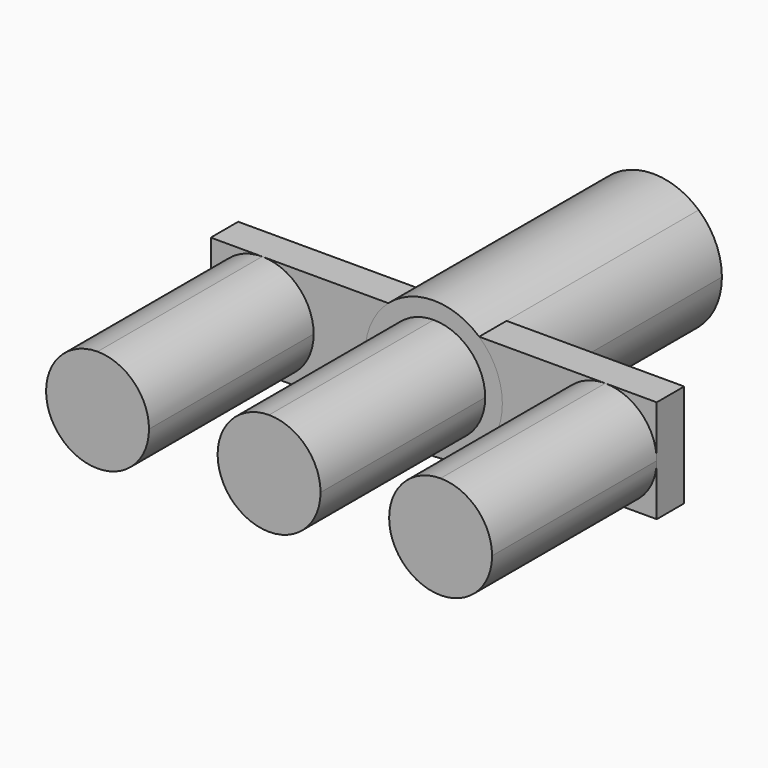
from build123d import *

# Parameters (mm, degrees)
F1_DEPTH = 76.2
F2_DEPTH = 12.7
F3_DEPTH = 101.6


with BuildPart() as f1:
    # F0 (on Front) → F1 (new body)
    with BuildSketch(Plane.XZ):
        with BuildLine():
            ThreePointArc((-63.5, -19.05), (-50.0296158184, -13.4703841816), (-44.45, 0))
            ThreePointArc((-44.45, 0), (-50.0296158184, 13.4703841816), (-63.5, 19.05))
            ThreePointArc((-63.5, 19.05), (-76.9703841264, 13.4703842368), (-82.55, 1.56e-07))
            ThreePointArc((-82.55, 1.56e-07), (-76.9703842368, -13.4703841264), (-63.5, -19.05))
        make_face()
    extrude(amount=F1_DEPTH)


with BuildPart() as f1b:
    # F0 (on Front) → F1, piece 2 (new body)
    with BuildSketch(Plane.XZ):
        with BuildLine():
            ThreePointArc((82.55, 0), (76.9703841816, 13.4703841816), (63.5, 19.05))
            ThreePointArc((63.5, 19.05), (50.0296158184, 13.4703841816), (44.45, 0))
            ThreePointArc((44.45, 0), (50.0296158184, -13.4703841816), (63.5, -19.05))
            ThreePointArc((63.5, -19.05), (76.9703841816, -13.4703841816), (82.55, 0))
        make_face()
    extrude(amount=F1_DEPTH)


with BuildPart() as f1c:
    # F0 (on Front) → F1, piece 3 (new body)
    with BuildSketch(Plane.XZ):
        with BuildLine():
            ThreePointArc((-5.96e-08, 19.05), (-13.4703842027, 13.4703841605), (-19.05, 0))
            Line((-19.05, 0), (0, 0))
            Line((0, 0), (19.05, 0))
            ThreePointArc((19.05, 0), (13.4703841605, 13.4703842027), (-5.96e-08, 19.05))
        make_face()
        with BuildLine():
            Line((0, 0), (-19.05, 0))
            ThreePointArc((-19.05, 0), (-13.4703842077, -13.4703841555), (-7.38e-08, -19.05))
            ThreePointArc((-7.38e-08, -19.05), (13.4703841555, -13.4703842077), (19.05, 0))
            Line((19.05, 0), (0, 0))
        make_face()
    extrude(amount=F1_DEPTH)


with BuildPart() as f2:
    # F0 (on Front) → F2 (new body)
    with BuildSketch(Plane.XZ):
        with BuildLine():
            ThreePointArc((-82.55, 1.56e-07), (-76.9703841264, 13.4703842368), (-63.5, 19.05))
            Line((-63.5, 19.05), (-82.55, 19.05))
            Line((-82.55, 19.05), (-82.55, 1.56e-07))
        make_face()
        with BuildLine():
            Line((-82.55, -19.05), (-63.5, -19.05))
            ThreePointArc((-63.5, -19.05), (-76.9703842368, -13.4703841264), (-82.55, 1.56e-07))
            Line((-82.55, 1.56e-07), (-82.55, -19.05))
        make_face()
        with BuildLine():
            Line((82.55, 19.05), (63.5, 19.05))
            ThreePointArc((63.5, 19.05), (76.9703841816, 13.4703841816), (82.55, 0))
            Line((82.55, 0), (82.55, 19.05))
        make_face()
        with BuildLine():
            ThreePointArc((82.55, 0), (76.9703841816, -13.4703841816), (63.5, -19.05))
            Line((63.5, -19.05), (82.55, -19.05))
            Line((82.55, -19.05), (82.55, 0))
        make_face()
        with BuildLine():
            ThreePointArc((-63.5, 19.05), (-50.0296158184, 13.4703841816), (-44.45, 0))
            Line((-44.45, 0), (-25.4, 0))
            ThreePointArc((-25.4, 0), (-23.1505208253, 10.4505208253), (-16.8005208253, 19.05))
            Line((-16.8005208253, 19.05), (-63.5, 19.05))
        make_face()
        with BuildLine():
            Line((-25.4, 0), (-44.45, 0))
            ThreePointArc((-44.45, 0), (-50.0296158184, -13.4703841816), (-63.5, -19.05))
            Line((-63.5, -19.05), (-16.8005208253, -19.05))
            ThreePointArc((-16.8005208253, -19.05), (-23.1505208253, -10.4505208253), (-25.4, 0))
        make_face()
        with BuildLine():
            Line((63.5, 19.05), (16.8005208253, 19.05))
            ThreePointArc((16.8005208253, 19.05), (23.1505208253, 10.4505208253), (25.4, 0))
            Line((25.4, 0), (44.45, 0))
            ThreePointArc((44.45, 0), (50.0296158184, 13.4703841816), (63.5, 19.05))
        make_face()
        with BuildLine():
            ThreePointArc((25.4, 0), (23.1505208253, -10.4505208253), (16.8005208253, -19.05))
            Line((16.8005208253, -19.05), (63.5, -19.05))
            ThreePointArc((63.5, -19.05), (50.0296158184, -13.4703841816), (44.45, 0))
            Line((44.45, 0), (25.4, 0))
        make_face()
        with BuildLine():
            Line((16.8005208253, 19.05), (-5.96e-08, 19.05))
            ThreePointArc((-5.96e-08, 19.05), (13.4703841605, 13.4703842027), (19.05, 0))
            Line((19.05, 0), (25.4, 0))
            ThreePointArc((25.4, 0), (23.1505208253, 10.4505208253), (16.8005208253, 19.05))
        make_face()
        with BuildLine():
            ThreePointArc((-16.8005208253, 19.05), (-23.1505208253, 10.4505208253), (-25.4, 0))
            Line((-25.4, 0), (-19.05, 0))
            ThreePointArc((-19.05, 0), (-13.4703842027, 13.4703841605), (-5.96e-08, 19.05))
            Line((-5.96e-08, 19.05), (-16.8005208253, 19.05))
        make_face()
        with BuildLine():
            Line((-19.05, 0), (-25.4, 0))
            ThreePointArc((-25.4, 0), (-23.1505208253, -10.4505208253), (-16.8005208253, -19.05))
            Line((-16.8005208253, -19.05), (-7.38e-08, -19.05))
            ThreePointArc((-7.38e-08, -19.05), (-13.4703842077, -13.4703841555), (-19.05, 0))
        make_face()
        with BuildLine():
            ThreePointArc((19.05, 0), (13.4703841555, -13.4703842077), (-7.38e-08, -19.05))
            Line((-7.38e-08, -19.05), (16.8005208253, -19.05))
            ThreePointArc((16.8005208253, -19.05), (23.1505208253, -10.4505208253), (25.4, 0))
            Line((25.4, 0), (19.05, 0))
        make_face()
        with BuildLine():
            ThreePointArc((-63.5, -19.05), (-50.0296158184, -13.4703841816), (-44.45, 0))
            ThreePointArc((-44.45, 0), (-50.0296158184, 13.4703841816), (-63.5, 19.05))
            ThreePointArc((-63.5, 19.05), (-76.9703841264, 13.4703842368), (-82.55, 1.56e-07))
            ThreePointArc((-82.55, 1.56e-07), (-76.9703842368, -13.4703841264), (-63.5, -19.05))
        make_face()
        with BuildLine():
            ThreePointArc((-5.96e-08, 19.05), (-13.4703842027, 13.4703841605), (-19.05, 0))
            Line((-19.05, 0), (0, 0))
            Line((0, 0), (19.05, 0))
            ThreePointArc((19.05, 0), (13.4703841605, 13.4703842027), (-5.96e-08, 19.05))
        make_face()
        with BuildLine():
            ThreePointArc((82.55, 0), (76.9703841816, 13.4703841816), (63.5, 19.05))
            ThreePointArc((63.5, 19.05), (50.0296158184, 13.4703841816), (44.45, 0))
            ThreePointArc((44.45, 0), (50.0296158184, -13.4703841816), (63.5, -19.05))
            ThreePointArc((63.5, -19.05), (76.9703841816, -13.4703841816), (82.55, 0))
        make_face()
        with BuildLine():
            Line((0, 0), (-19.05, 0))
            ThreePointArc((-19.05, 0), (-13.4703842077, -13.4703841555), (-7.38e-08, -19.05))
            ThreePointArc((-7.38e-08, -19.05), (13.4703841555, -13.4703842077), (19.05, 0))
            Line((19.05, 0), (0, 0))
        make_face()
    extrude(amount=-F2_DEPTH)


with BuildPart() as f3:
    # F0 (on Front) → F3 (new body)
    with BuildSketch(Plane.XZ):
        with BuildLine():
            ThreePointArc((16.8005208253, 19.05), (0, 25.4), (-16.8005208253, 19.05))
            Line((-16.8005208253, 19.05), (-5.96e-08, 19.05))
            Line((-5.96e-08, 19.05), (16.8005208253, 19.05))
        make_face()
        with BuildLine():
            ThreePointArc((-16.8005208253, 19.05), (-23.1505208253, 10.4505208253), (-25.4, 0))
            Line((-25.4, 0), (-19.05, 0))
            ThreePointArc((-19.05, 0), (-13.4703842027, 13.4703841605), (-5.96e-08, 19.05))
            Line((-5.96e-08, 19.05), (-16.8005208253, 19.05))
        make_face()
        with BuildLine():
            Line((16.8005208253, 19.05), (-5.96e-08, 19.05))
            ThreePointArc((-5.96e-08, 19.05), (13.4703841605, 13.4703842027), (19.05, 0))
            Line((19.05, 0), (25.4, 0))
            ThreePointArc((25.4, 0), (23.1505208253, 10.4505208253), (16.8005208253, 19.05))
        make_face()
        with BuildLine():
            ThreePointArc((19.05, 0), (13.4703841555, -13.4703842077), (-7.38e-08, -19.05))
            Line((-7.38e-08, -19.05), (16.8005208253, -19.05))
            ThreePointArc((16.8005208253, -19.05), (23.1505208253, -10.4505208253), (25.4, 0))
            Line((25.4, 0), (19.05, 0))
        make_face()
        with BuildLine():
            Line((-7.38e-08, -19.05), (-16.8005208253, -19.05))
            ThreePointArc((-16.8005208253, -19.05), (0, -25.4), (16.8005208253, -19.05))
            Line((16.8005208253, -19.05), (-7.38e-08, -19.05))
        make_face()
        with BuildLine():
            Line((-19.05, 0), (-25.4, 0))
            ThreePointArc((-25.4, 0), (-23.1505208253, -10.4505208253), (-16.8005208253, -19.05))
            Line((-16.8005208253, -19.05), (-7.38e-08, -19.05))
            ThreePointArc((-7.38e-08, -19.05), (-13.4703842077, -13.4703841555), (-19.05, 0))
        make_face()
        with BuildLine():
            ThreePointArc((-5.96e-08, 19.05), (-13.4703842027, 13.4703841605), (-19.05, 0))
            Line((-19.05, 0), (0, 0))
            Line((0, 0), (19.05, 0))
            ThreePointArc((19.05, 0), (13.4703841605, 13.4703842027), (-5.96e-08, 19.05))
        make_face()
        with BuildLine():
            Line((0, 0), (-19.05, 0))
            ThreePointArc((-19.05, 0), (-13.4703842077, -13.4703841555), (-7.38e-08, -19.05))
            ThreePointArc((-7.38e-08, -19.05), (13.4703841555, -13.4703842077), (19.05, 0))
            Line((19.05, 0), (0, 0))
        make_face()
    extrude(amount=-F3_DEPTH)


solid = Compound([f1.part, f1b.part, f1c.part, f2.part, f3.part])
